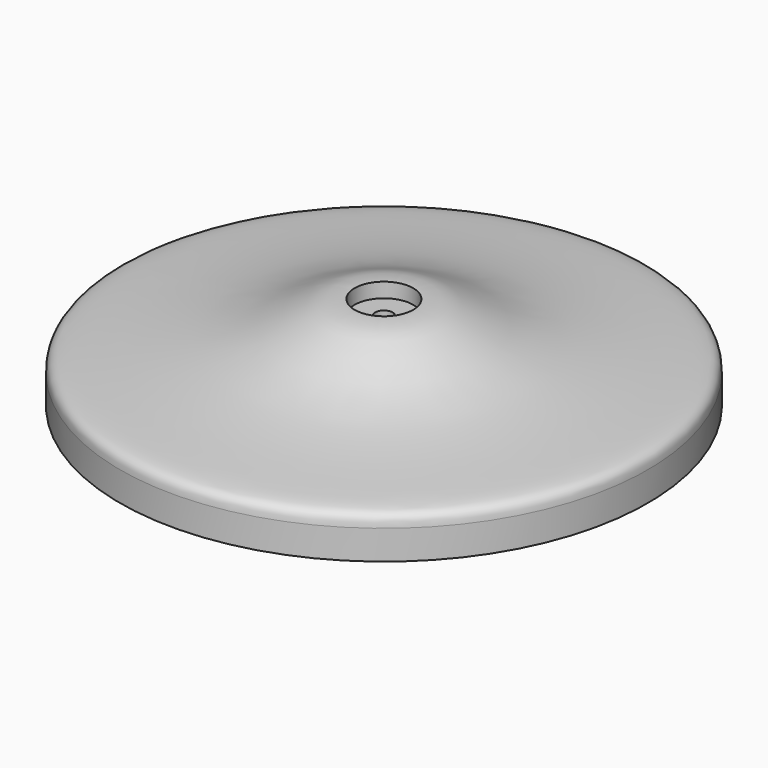
from build123d import *

# Parameters (mm, degrees)
F3_D           = 3.7973
F3_CSINK_D     = 7.7978
F3_CSINK_ANGLE = 82


with BuildPart() as f2:
    # F1 (on Front) → F2 (revolve)
    with BuildSketch(Plane.XZ):
        with BuildLine():
            Line((-57.15, 6.35), (-57.15, 0))
            Line((-57.15, 0), (0, 0))
            Line((0, 0), (0, 17.145))
            Line((0, 17.145), (-6.35, 17.145))
            Line((-6.35, 17.145), (-6.35, 20.32))
            add(Edge.make_bspline(
                [(-57.15, 6.35), (-57.1676209374, 8.9479839047), (-51.9103466137, 9.9759992485), (-22.8261630125, 11.3909479585), (-12.6205893387, 20.7843558688), (-6.35, 20.32)],
                knots=[0, 0, 0, 0, 0.1934647452, 0.6365727587, 1, 1, 1, 1], degree=3))
        make_face()
    revolve(axis=Axis((0, 0, 9.8803850124), (0, 0, -1)))

    # F3 (through all)
    with Locations(Plane(origin=(0, 0, 0), x_dir=(1, 0, 0), z_dir=(0, 0, -1))):
        with Locations((0, 0)):
            CounterSinkHole(F3_D / 2, F3_CSINK_D / 2, counter_sink_angle=F3_CSINK_ANGLE)


solid = f2.part
